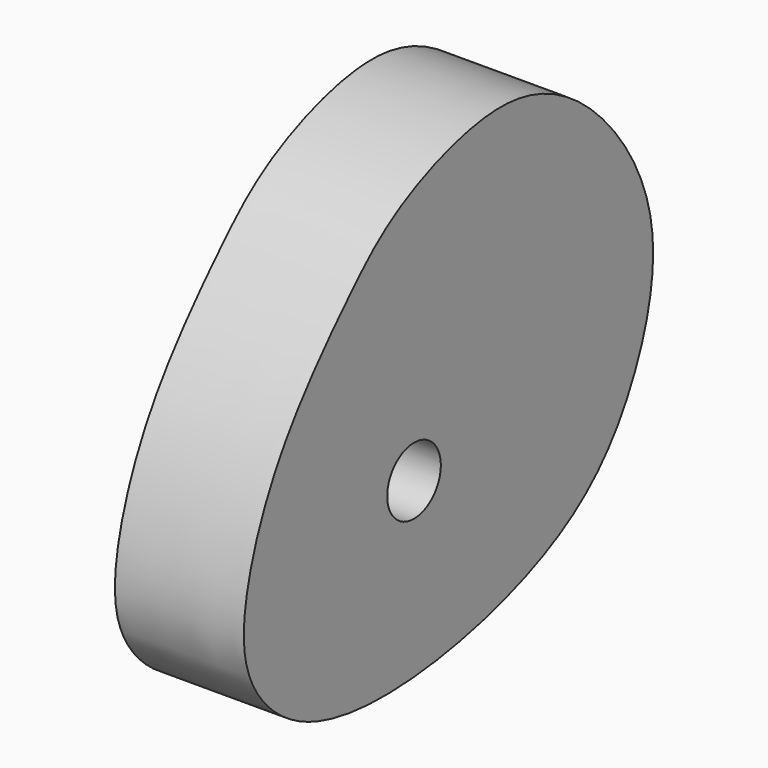
from build123d import *

# Parameters (mm, degrees)
F0_R     = 3.302
F1_DEPTH = 12.7


with BuildPart() as f1:
    # F0 (on Right) → F1 (new body)
    with BuildSketch(Plane.YZ):
        with BuildLine():
            add(Edge.make_bspline(
                [(-12.8902861132, -4.9291603482), (-15.4658609728, -7.5150811153), (-21.9009618954, -14.4010247278), (-26.3680977062, -25.3194507802), (-26.6687665221, -33.854986398), (-19.2780976407, -41.6002617164), (-3.5748735162, -42.5532023519), (14.6008704158, -37.2171931422), (22.2599964684, -27.2326729698), (25.6185975814, -14.522057975), (18.8190138846, -2.0558749512), (7.0753710909, 5.573494248), (-7.2058395206, 0.4691775612), (-10.8685579336, -2.8993110253), (-12.8902861132, -4.9291603482)],
                knots=[0, 0, 0, 0, 0.085890267, 0.1682642949, 0.2350277526, 0.3074855567, 0.4013283154, 0.504348038, 0.5870845842, 0.6705132301, 0.757903699, 0.8441742499, 0.9325794113, 1, 1, 1, 1], degree=3))
        make_face()
        with Locations((-5.3668315298, -24.645801741)):
            Circle(F0_R, mode=Mode.SUBTRACT)
    extrude(amount=F1_DEPTH)


solid = f1.part
